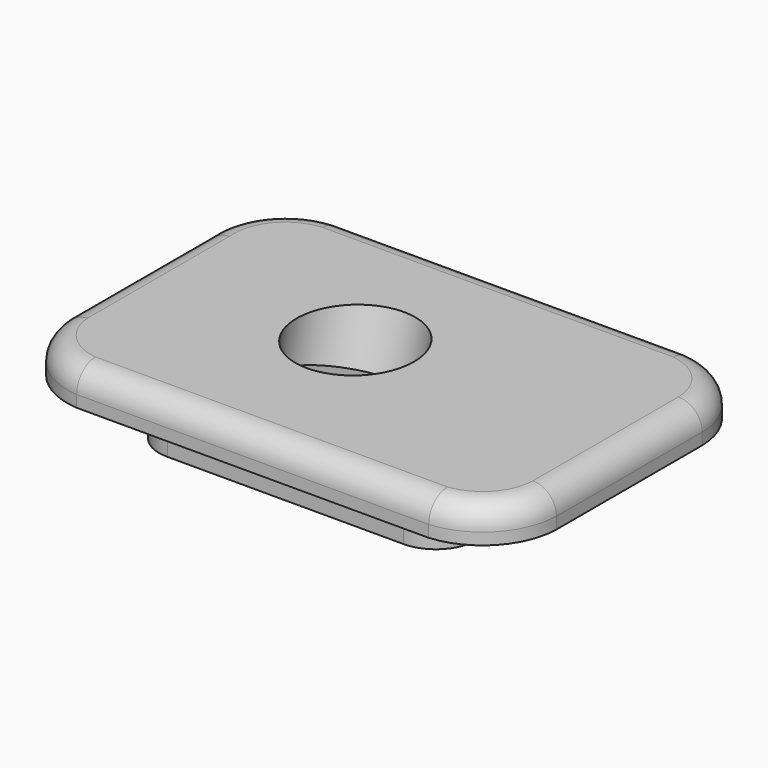
from build123d import *

# Parameters (mm, degrees)
PAD016_DEPTH    = 6
PAD017_DEPTH    = 8
FILLET004_R     = 4
SKETCH047_R     = 10
POCKET029_DEPTH = 13
SKETCH046_R     = 5
POCKET030_DEPTH = 28


with BuildPart() as part:
    # Sketch044 → Pad016 (new body)
    with BuildSketch(Plane.XY):
        with BuildLine():
            ThreePointArc((-41.745088, -16.267645), (-38.019176, -24.312586), (-29.956517, -28))
            Line((30.011514, -28), (-29.956517, -28))
            ThreePointArc((30.011514, -28), (38.300743, -24.027618), (41.782861, -15.520798))
            Line((41.782861, -15.520798), (41.782861, 15.521905))
            ThreePointArc((41.782861, 15.521905), (38.305508, 24.02367), (30.025364, 28))
            Line((-29.988894, 28), (30.025364, 28))
            ThreePointArc((-29.988894, 28), (-38.722289, 23.556252), (-41.745088, 14.235214))
            Line((-41.745088, 14.235214), (-41.745088, -16.267645))
        make_face()
    extrude(amount=PAD016_DEPTH)

    # Sketch045 → Pad017 (join)
    with BuildSketch(Plane.XY.offset(-7)):
        with BuildLine():
            Line((0, -21), (-20.122893, -21))
            ThreePointArc((-27, -14.122893), (-24.985742, -18.985742), (-20.122893, -21))
            Line((-27, 0), (-27, -14.122893))
            Line((-27, 0), (-27, 14.122893))
            ThreePointArc((-20.122893, 21), (-24.985742, 18.985742), (-27, 14.122893))
            Line((0, 21), (-20.122893, 21))
            Line((0, 21), (20.122893, 21))
            ThreePointArc((27, 14.122893), (24.985742, 18.985742), (20.122893, 21))
            Line((27, 0), (27, 14.122893))
            Line((27, 0), (27, -14.122893))
            ThreePointArc((20.122893, -21), (24.985742, -18.985742), (27, -14.122893))
            Line((0, -21), (20.122893, -21))
        make_face()
    extrude(amount=PAD017_DEPTH)

    # Fillet004
    fillet004_edges = [part.edges().sort_by_distance(p)[0] for p in [
        (0.027499, -28, 6),
        (-38.019176, -24.312586, 6),
        (-38.722289, 23.556252, 6),
        (-41.745088, -1.016216, 6),
        (0.018235, 28, 6),
        (38.305508, 24.02367, 6),
        (41.782861, 0.000553, 6),
        (38.300743, -24.027618, 6),
    ]]
    fillet(fillet004_edges, radius=FILLET004_R)

    # Sketch047 → Pocket029 (cut)
    with BuildSketch(Plane(origin=(-6, 3, 12), x_dir=(1, 0, 0), z_dir=(0, 0.258819, 0.965926))):
        Circle(SKETCH047_R)
    extrude(amount=-POCKET029_DEPTH, mode=Mode.SUBTRACT)

    # Sketch046 → Pocket030 (cut)
    with BuildSketch(Plane(origin=(-6, 3, 12), x_dir=(1, 0, 0), z_dir=(0, 0.258819, 0.965926))):
        Circle(SKETCH046_R)
    extrude(amount=-POCKET030_DEPTH, mode=Mode.SUBTRACT)


solid = part.part
